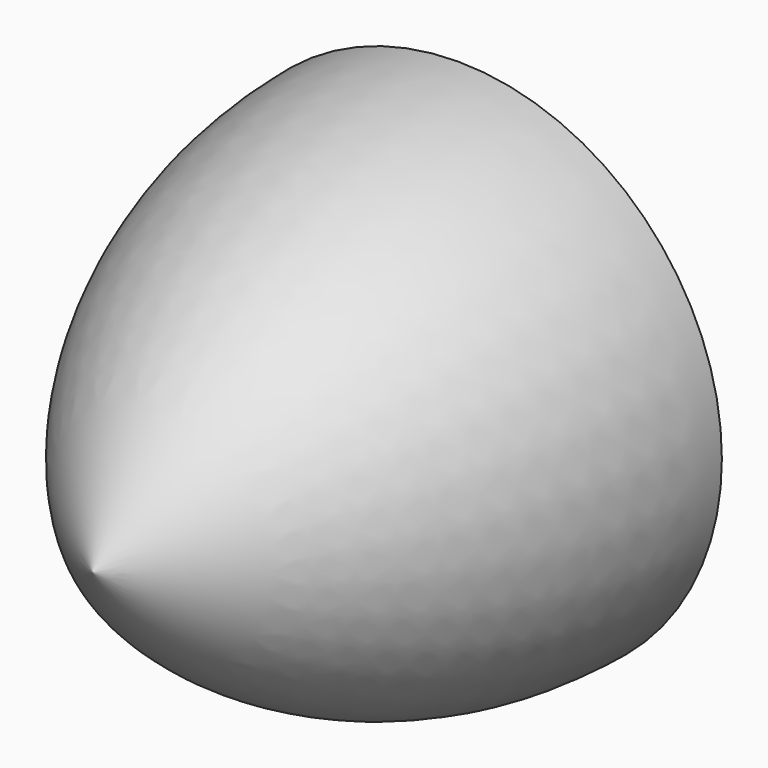
from build123d import *


with BuildPart() as f1:
    # F0 (on Top) → F1 (revolve)
    with BuildSketch(Plane.XY):
        Polygon((0, 14.4908), (-25.098802, 14.4908), (0, -28.9816), align=None)
        with BuildLine():
            Line((0, -28.9816), (-25.098802, 14.4908))
            ThreePointArc((-25.098802, 14.4908), (-18.373598, -10.608002), (0, -28.9816))
        make_face()
        with BuildLine():
            ThreePointArc((0, 21.216004), (-12.992096, 19.505562), (-25.098802, 14.4908))
            Line((-25.098802, 14.4908), (0, 14.4908))
            Line((0, 14.4908), (0, 21.216004))
        make_face()
    revolve(axis=Axis((0, -3.882798, 0), (0, -1, 0)))


solid = f1.part
